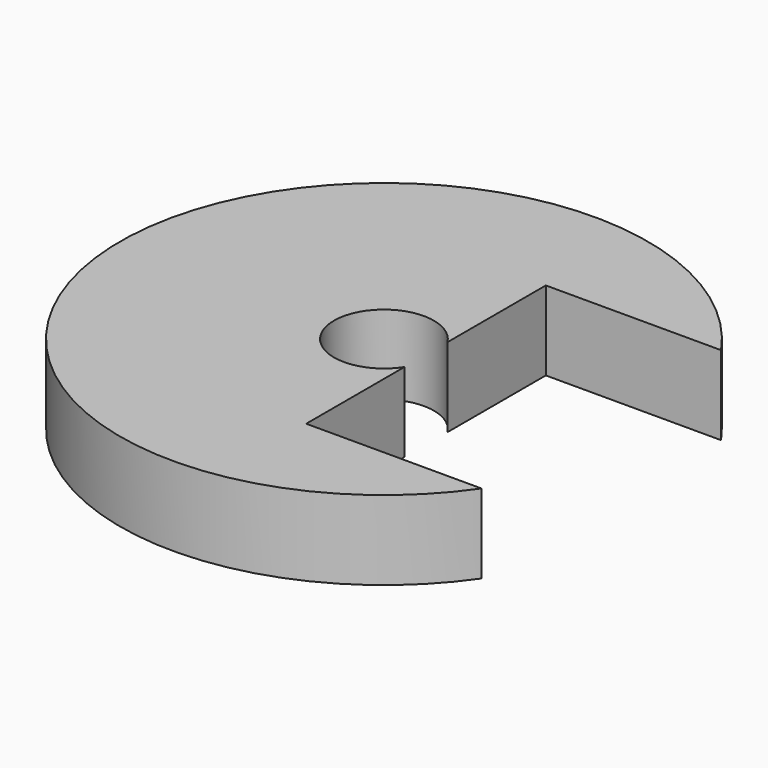
from build123d import *

# Parameters (mm, degrees)
F1_DEPTH = 6.35


with BuildPart() as f1:
    # F0 (on Top) → F1 (new body)
    with BuildSketch(Plane.XY):
        with BuildLine():
            Line((-2.9175, 12), (11.1286562924, 12))
            ThreePointArc((11.1286562924, 12), (-27.4375, 0), (11.1286562924, -12))
            Line((11.1286562924, -12), (-2.9175, -12))
            Line((-2.9175, -12), (-2.9175, -2.1547853721))
            ThreePointArc((-2.9175, -2.1547853721), (-10.2875, 0), (-2.9175, 2.1547853721))
            Line((-2.9175, 2.1547853721), (-2.9175, 12))
        make_face()
    extrude(amount=F1_DEPTH)


solid = f1.part
